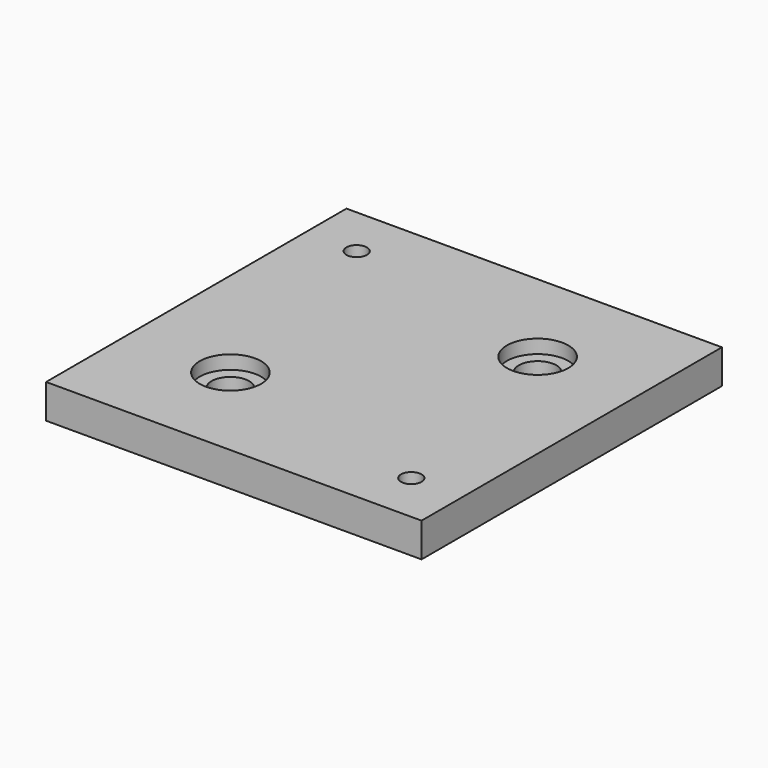
from build123d import *

# Parameters (mm, degrees)
SKETCH_W        = 55
SKETCH_H        = 55
SKETCH_R        = 1.5
SKETCH_R_2      = 2.75
PAD_DEPTH       = 5
SKETCH001_R     = 4.5
POCKET_DEPTH    = 2
SKETCH002_R     = 3
POCKET001_DEPTH = 2


with BuildPart() as part:
    # Sketch → Pad (new body)
    with BuildSketch(Plane.XY):
        with Locations((27.5, 27.5)):
            Rectangle(SKETCH_W, SKETCH_H)
        with Locations((7.5, 47.5)):
            Circle(SKETCH_R, mode=Mode.SUBTRACT)
        with Locations((47.5, 7.5)):
            Circle(SKETCH_R, mode=Mode.SUBTRACT)
        with Locations((40, 40)):
            Circle(SKETCH_R_2, mode=Mode.SUBTRACT)
        with Locations((15, 15)):
            Circle(SKETCH_R_2, mode=Mode.SUBTRACT)
    extrude(amount=PAD_DEPTH)

    # Sketch001 → Pocket (cut)
    with BuildSketch(Plane.XY.offset(5)):
        with Locations((40, 40)):
            Circle(SKETCH001_R)
        with Locations((15, 15)):
            Circle(SKETCH001_R)
    extrude(amount=-POCKET_DEPTH, mode=Mode.SUBTRACT)

    # Sketch002 → Pocket001 (cut)
    with BuildSketch(Plane(origin=(0, 0, 0), x_dir=(1, 0, 0), z_dir=(0, 0, -1))):
        with Locations((47.5, -7.5)):
            Circle(SKETCH002_R)
        with Locations((7.5, -47.5)):
            Circle(SKETCH002_R)
    extrude(amount=-POCKET001_DEPTH, mode=Mode.SUBTRACT)


solid = part.part
